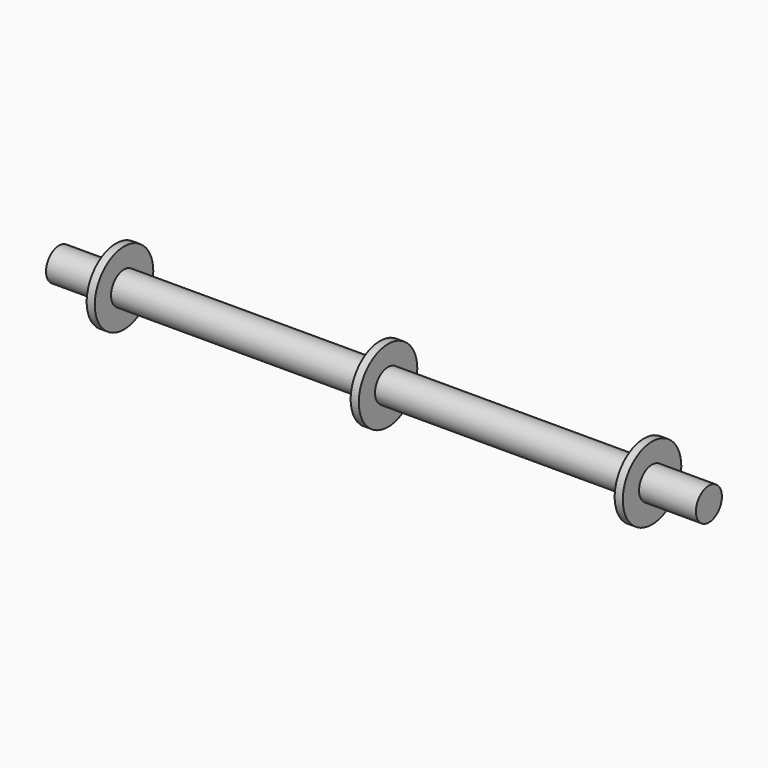
from build123d import *

# Parameters (mm, degrees)
F0_R     = 10
F1_DEPTH = 200
F4_R     = 22.5
F5_DEPTH = 5
F6_R     = 22.5
F7_DEPTH = 5
F8_R     = 22.5
F9_DEPTH = 2.5


with BuildPart() as f1:
    # F0 (on Right) → F1 (new body, symmetric)
    with BuildSketch(Plane.YZ):
        Circle(F0_R)
    extrude(amount=F1_DEPTH, both=True)

    # F4 (on offset) → F5 (join)
    with BuildSketch(Plane.YZ.offset(165)):
        Circle(F4_R)
    extrude(amount=-F5_DEPTH)

    # F6 (on offset) → F7 (join)
    with BuildSketch(Plane.YZ.offset(-165)):
        Circle(F6_R)
    extrude(amount=F7_DEPTH)

    # F8 (on Right) → F9 (join, symmetric)
    with BuildSketch(Plane.YZ):
        Circle(F8_R)
    extrude(amount=F9_DEPTH, both=True)


solid = f1.part
